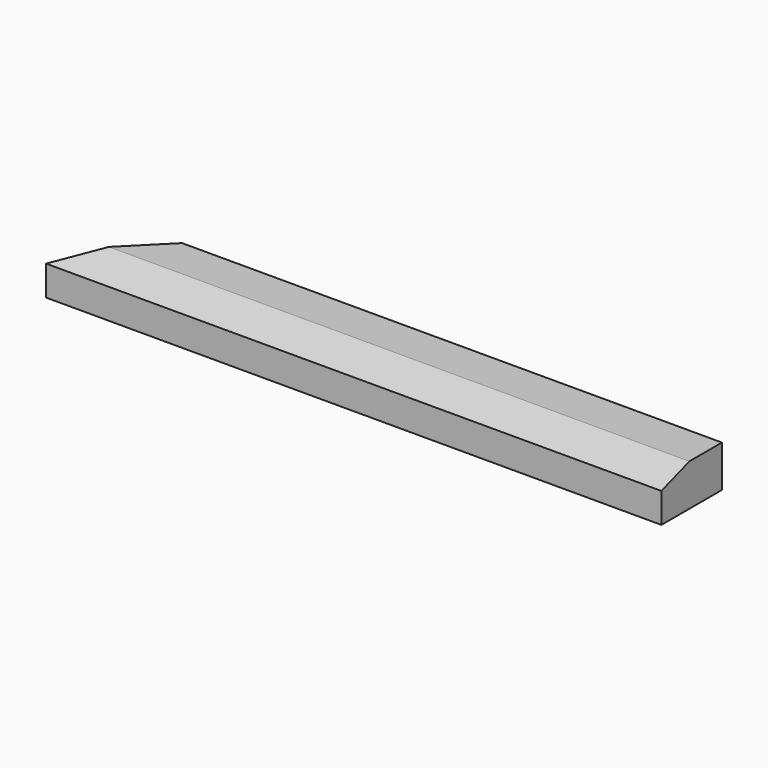
from build123d import *

# Parameters (mm, degrees)
F1_DEPTH = 1090
F3_DEPTH = 74.001


with BuildPart() as f1:
    # F0 (on Right) → F1 (new body)
    with BuildSketch(Plane.YZ):
        Polygon((-134, 0), (0, 0), (0, 74), (-72, 74), (-134, 53), align=None)
    extrude(amount=-F1_DEPTH)

    # F2 (on Top) → F3 (cut, through all)
    with BuildSketch(Plane.XY):
        Polygon((-1195.407476, -137.201768), (-1090, -134), (-956.386652, 0), (-1195.407476, 0), align=None)
    extrude(amount=F3_DEPTH, mode=Mode.SUBTRACT)


solid = f1.part
